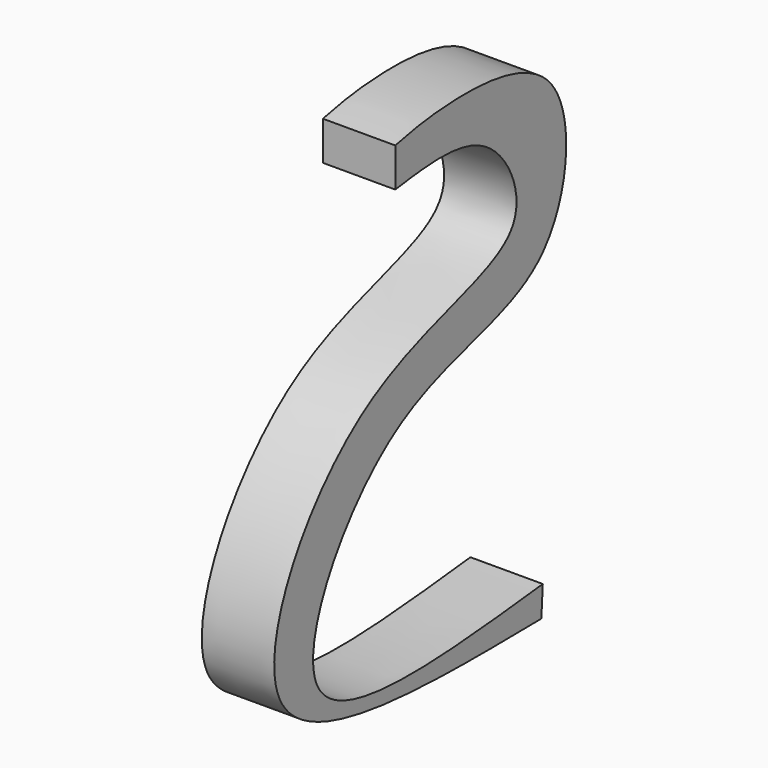
from build123d import *

# Parameters (mm, degrees)
F1_DEPTH = 22.098


with BuildPart() as f1:
    # F0 (on Right) → F1 (new body)
    with BuildSketch(Plane.YZ):
        with BuildLine():
            add(Edge.make_bspline(
                [(-31.0383643955, 70.7674622536), (-25.8273113716, 71.8683154317), (-12.8774149313, 74.60402635), (39.2222148117, 73.6008457946), (33.3905579811, 4.6672759502), (-35.3615731436, 8.5270050187), (-86.4881787162, -81.8911809725), (-13.8671276944, -74.1233260809), (25.2445340157, -69.9397772551)],
                knots=[0, 0, 0, 0, 0.1022391141, 0.2540726286, 0.4102476396, 0.5947303466, 0.7817331289, 1, 1, 1, 1], degree=3))
            Line((-31.0383643955, 70.7674622536), (-31.0383643955, 58.903913945))
            add(Edge.make_bspline(
                [(-31.0383643955, 58.903913945), (-18.0769667798, 60.6249897448), (6.067364731, 63.8309885035), (26.171217845, 20.6753378039), (-50.1649319143, 18.5381539968), (-103.7253626923, -80.6948527209), (-20.4267300012, -79.6242605239), (24.692742154, -79.0443643928)],
                knots=[0, 0, 0, 0, 0.158436961, 0.2951344155, 0.5046006728, 0.7316623884, 1, 1, 1, 1], degree=3))
            Line((24.692742154, -79.0443643928), (25.2445340157, -69.9397772551))
        make_face()
    extrude(amount=F1_DEPTH)


solid = f1.part
